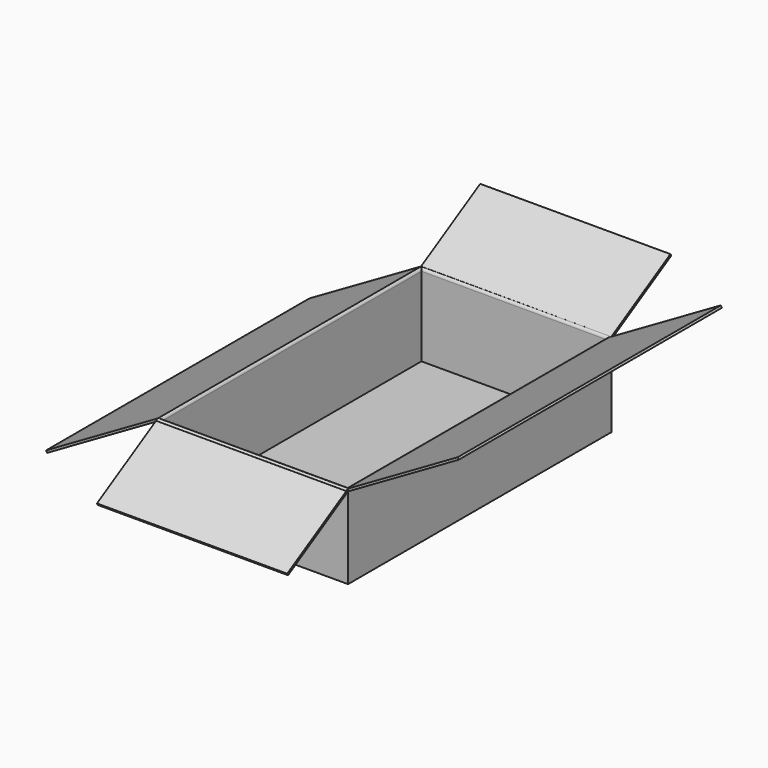
from build123d import *

# Parameters (mm, degrees)
F0_W     = 268
F0_H     = 115
F1_DEPTH = 463.5
F2_T     = -3
F4_DEPTH = 463.5
F6_DEPTH = 268


with BuildPart() as f1:
    # F0 (on Front) → F1 (new body)
    with BuildSketch(Plane.XZ):
        with Locations((134, 57.5)):
            Rectangle(F0_W, F0_H)
    extrude(amount=F1_DEPTH)

    # F2
    f2_openings = [f1.faces().sort_by_distance(p)[0] for p in [
        (134, -231.75, 115),
    ]]
    offset(amount=F2_T, openings=f2_openings)

    # F3 (on face) → F4 (join, through all)
    with BuildSketch(Plane.XZ.offset(463.5)):
        with BuildLine():
            Line((-155.884573, 25), (0, 115))
            Line((0, 115), (3.464102, 115))
            ThreePointArc((3.464102, 115), (2.44949, 117.44949), (0, 118.464102))
            Line((0, 118.464102), (-157.384573, 27.598076))
            Line((-157.384573, 27.598076), (-155.884573, 25))
        make_face()
        with BuildLine():
            Line((264.535898, 115), (268, 115))
            Line((268, 115), (423.884573, 205))
            Line((423.884573, 205), (422.384573, 207.598076))
            Line((422.384573, 207.598076), (268, 118.464102))
            ThreePointArc((268, 118.464102), (265.55051, 117.44949), (264.535898, 115))
        make_face()
    extrude(amount=-F4_DEPTH)

    # F5 (on face) → F6 (join, through all)
    with BuildSketch(Plane(origin=(0, 0, 0), x_dir=(0, -1, 0), z_dir=(-1, 0, 0))):
        with BuildLine():
            Line((460.035898, 115), (463.5, 115))
            Line((463.5, 115), (569.155099, 54))
            Line((569.155099, 54), (570.655099, 56.598076))
            Line((570.655099, 56.598076), (466.5, 116.732051))
            ThreePointArc((466.5, 116.732051), (465.232051, 118), (463.5, 118.464102))
            ThreePointArc((463.5, 118.464102), (461.05051, 117.44949), (460.035898, 115))
        make_face()
        with BuildLine():
            Line((-105.655099, 176), (0, 115))
            Line((0, 115), (3.464102, 115))
            ThreePointArc((3.464102, 115), (2.44949, 117.44949), (0, 118.464102))
            Line((0, 118.464102), (-104.155099, 178.598076))
            Line((-104.155099, 178.598076), (-105.655099, 176))
        make_face()
    extrude(amount=-F6_DEPTH)


solid = f1.part
